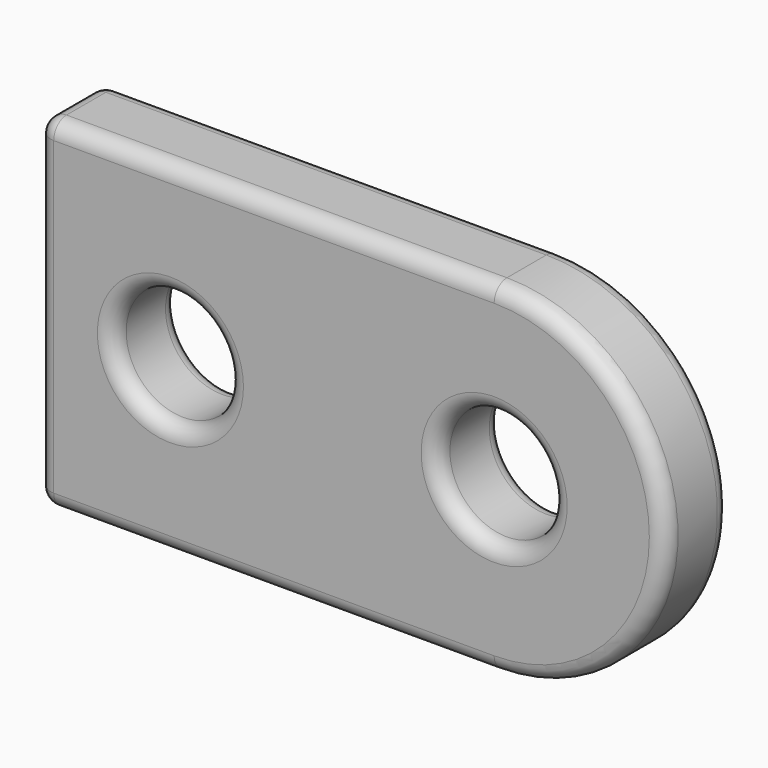
from build123d import *

# Parameters (mm, degrees)
F0_R     = 2.5
F1_DEPTH = 3.556
F2_R     = 0.7


with BuildPart() as f1:
    # F0 (on Front) → F1 (new body)
    with BuildSketch(Plane.XZ):
        with BuildLine():
            Line((0, 7.5), (-20, 7.5))
            Line((-20, 7.5), (-20, -7.5))
            Line((-20, -7.5), (0, -7.5))
            ThreePointArc((0, -7.5), (7.5, 0), (0, 7.5))
        make_face()
        with Locations((-14.186562, 0)):
            Circle(F0_R, mode=Mode.SUBTRACT)
        Circle(F0_R, mode=Mode.SUBTRACT)
    extrude(amount=F1_DEPTH)

    # F2
    f2_edges = [f1.edges().sort_by_distance(p)[0] for p in [
        (-16.686562, -3.556, 0),
        (-2.5, -3.556, 0),
        (-10, -3.556, -7.5),
        (7.5, -3.556, 0),
        (-10, -3.556, 7.5),
        (-20, -3.556, 0),
        (-20, -1.778, 7.5),
        (-20, -1.778, -7.5),
        (-10, 0, -7.5),
        (-20, 0, 0),
        (-10, 0, 7.5),
        (-16.686562, 0, 0),
        (-2.5, 0, 0),
        (7.5, 0, 0),
    ]]
    fillet(f2_edges, radius=F2_R)


solid = f1.part
